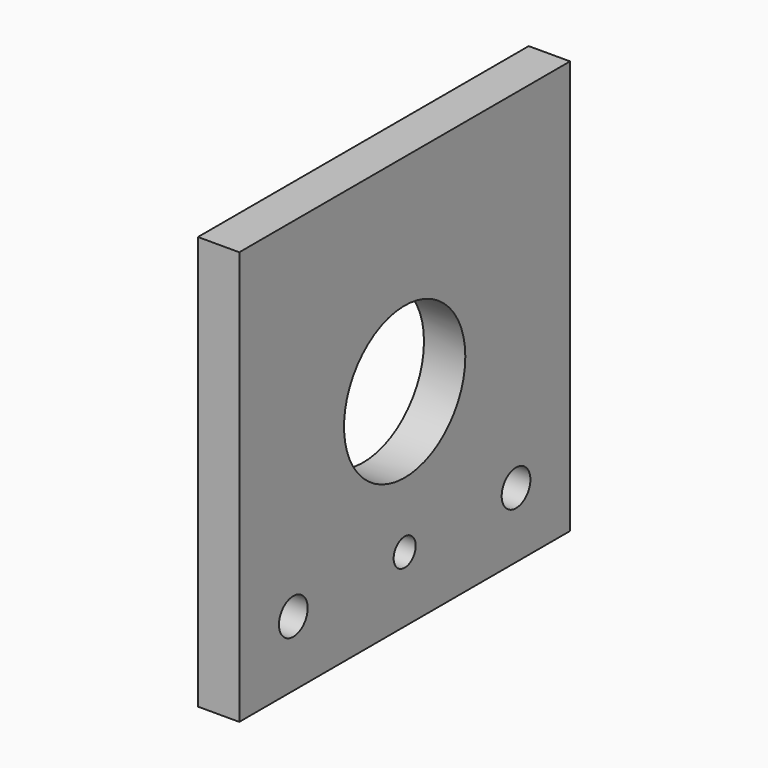
from build123d import *

# Parameters (mm, degrees)
F0_W     = 60
F0_H     = 60
F0_R     = 2.604102
F0_R_2   = 2
F0_R_3   = 11
F1_DEPTH = 6


with BuildPart() as f1:
    # F0 (on Right) → F1 (new body)
    with BuildSketch(Plane.YZ):
        with Locations((30, 30)):
            Rectangle(F0_W, F0_H)
        with Locations((9.799995, 9.5)):
            Circle(F0_R, mode=Mode.SUBTRACT)
        with Locations((30, 9.5)):
            Circle(F0_R_2, mode=Mode.SUBTRACT)
        with Locations((50.200005, 9.5)):
            Circle(F0_R, mode=Mode.SUBTRACT)
        with Locations((30, 30)):
            Circle(F0_R_3, mode=Mode.SUBTRACT)
    extrude(amount=F1_DEPTH)


solid = f1.part
